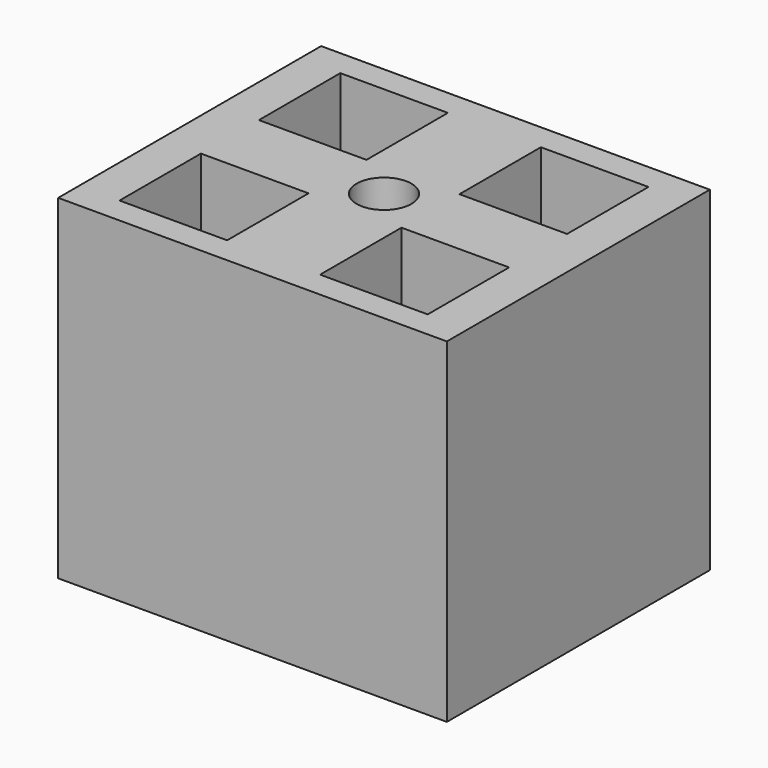
from build123d import *

# Parameters (mm, degrees)
F0_W     = 133.2214027643
F0_H     = 112.6486063004
F1_DEPTH = 114.808
F2_W     = 105.6237369776
F2_H     = 94.5846736431
F3_DEPTH = 100.838
F4_W     = 36.8804913014
F4_H     = 24.8378776014
F4_W_2   = 31.8627543747
F4_H_2   = 34.8733980209
F5_DEPTH = 56.388
F6_R     = 9.4091261345
F7_DEPTH = 94.742


with BuildPart() as f1:
    # F0 (on Top) → F1 (new body)
    with BuildSketch(Plane.XY):
        Rectangle(F0_W, F0_H)
    extrude(amount=F1_DEPTH)

    # F2 (on face) → F3 (cut)
    with BuildSketch(Plane.XY.offset(114.808)):
        Rectangle(F2_W, F2_H)
    extrude(amount=-F3_DEPTH, mode=Mode.SUBTRACT)

    # F4 (on face) → F5 (join)
    with BuildSketch(Plane.XY.offset(114.808)):
        with Locations((-34.3716228381, 0)):
            Rectangle(F4_W, F4_H)
        with Locations((34.3716228381, 0)):
            Rectangle(F4_W, F4_H)
        with Locations((0, 29.8556378111)):
            Rectangle(F4_W_2, F4_H_2)
        with Locations((0, -29.8556378111)):
            Rectangle(F4_W_2, F4_H_2)
        Rectangle(F4_W_2, F4_H)
    extrude(amount=-F5_DEPTH)

    # F6 (on face) → F7 (cut)
    with BuildSketch(Plane.XY.offset(114.808)):
        Circle(F6_R)
    extrude(amount=-F7_DEPTH, mode=Mode.SUBTRACT)


solid = f1.part
